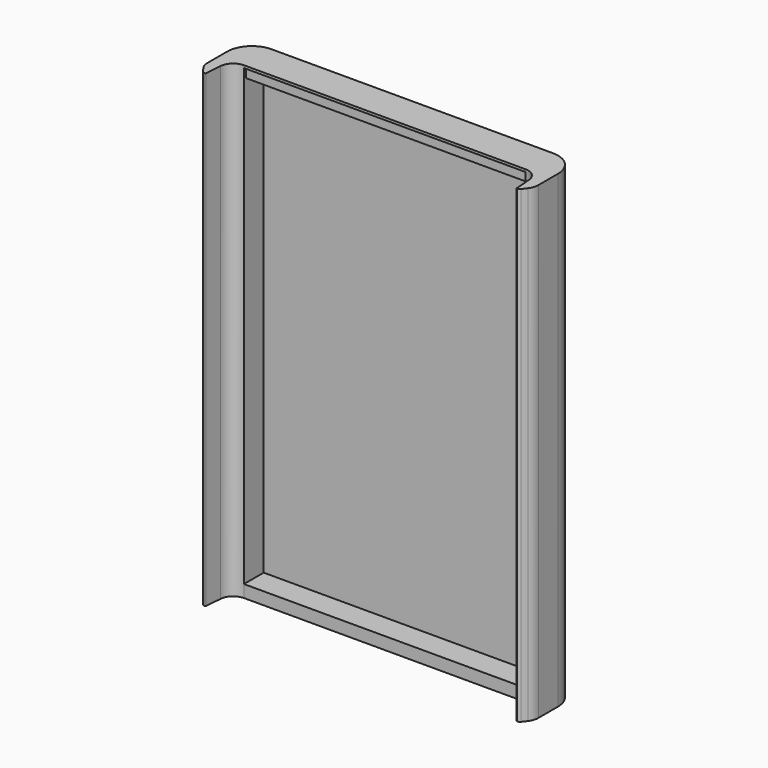
from build123d import *

# Parameters (mm, degrees)
PAD001_DEPTH    = 95
SKETCH003_W     = 57
SKETCH003_H     = 90
POCKET001_DEPTH = 5
SKETCH004_W     = 57
SKETCH004_H     = 2
POCKET002_DEPTH = 0.5
SKETCH_W        = 23
SKETCH_H        = 25
POCKET_DEPTH    = 0.5


with BuildPart() as part:
    # Sketch002 → Pad001 (new body)
    with BuildSketch(Plane.XY):
        with BuildLine():
            ThreePointArc((-2.493796, 17.268055), (-6.02933, 15.803589), (-7.493796, 12.268055))
            Line((-7.493796, 7.268055), (-7.493796, 12.268055))
            ThreePointArc((-7.493796, 7.268055), (-7.339846, 6.319372), (-6.893796, 5.468055))
            Line((-6.893796, 5.468055), (-6.203796, 4.548055))
            ThreePointArc((-6.203796, 4.548055), (-5.956846, 4.341956), (-5.643796, 4.268055))
            Line((-5.643796, 4.268055), (-5.561624, 4.268055))
            ThreePointArc((-5.561624, 4.268055), (-5.511784, 4.287542), (-5.488379, 4.335666))
            Line((-5.488379, 4.335666), (-5.214244, 7.756873))
            ThreePointArc((-2.493796, 10.268055), (-4.344936, 9.54429), (-5.214244, 7.756873))
            Line((-2.493796, 10.268055), (54.506204, 10.268055))
            ThreePointArc((57.226651, 7.756873), (56.357343, 9.54429), (54.506204, 10.268055))
            Line((57.226651, 7.756873), (57.500786, 4.335666))
            ThreePointArc((57.500786, 4.335666), (57.524191, 4.287542), (57.574031, 4.268055))
            Line((57.574031, 4.268055), (57.656204, 4.268055))
            ThreePointArc((57.656204, 4.268055), (57.969253, 4.341956), (58.216204, 4.548055))
            Line((58.906204, 5.468055), (58.216204, 4.548055))
            ThreePointArc((58.906204, 5.468055), (59.352254, 6.319372), (59.506204, 7.268055))
            Line((59.506204, 12.268055), (59.506204, 7.268055))
            ThreePointArc((59.506204, 12.268055), (58.041738, 15.803589), (54.506204, 17.268055))
            Line((-2.493796, 17.268055), (54.506204, 17.268055))
        make_face()
    extrude(amount=PAD001_DEPTH)

    # Sketch003 (on Face14 of Pad001) → Pocket001 (cut)
    with BuildSketch(Plane.XZ.offset(-10.268055)):
        with Locations((26, 47.5)):
            Rectangle(SKETCH003_W, SKETCH003_H)
    extrude(amount=-POCKET001_DEPTH, mode=Mode.SUBTRACT)

    # Sketch004 (on Face18 of Pocket001) → Pocket002 (cut)
    with BuildSketch(Plane.XZ.offset(-10.268055)):
        with Locations((26, 93.5)):
            Rectangle(SKETCH004_W, SKETCH004_H)
    extrude(amount=-POCKET002_DEPTH, mode=Mode.SUBTRACT)

    # Sketch (on Face8 of Pocket002) → Pocket (cut)
    with BuildSketch(Plane(origin=(0, 17.268055, 0), x_dir=(-1, 0, 0), z_dir=(0, 1, 0))):
        with Locations((-26, 24.5)):
            Rectangle(SKETCH_W, SKETCH_H)
    extrude(amount=-POCKET_DEPTH, mode=Mode.SUBTRACT)


solid = part.part
